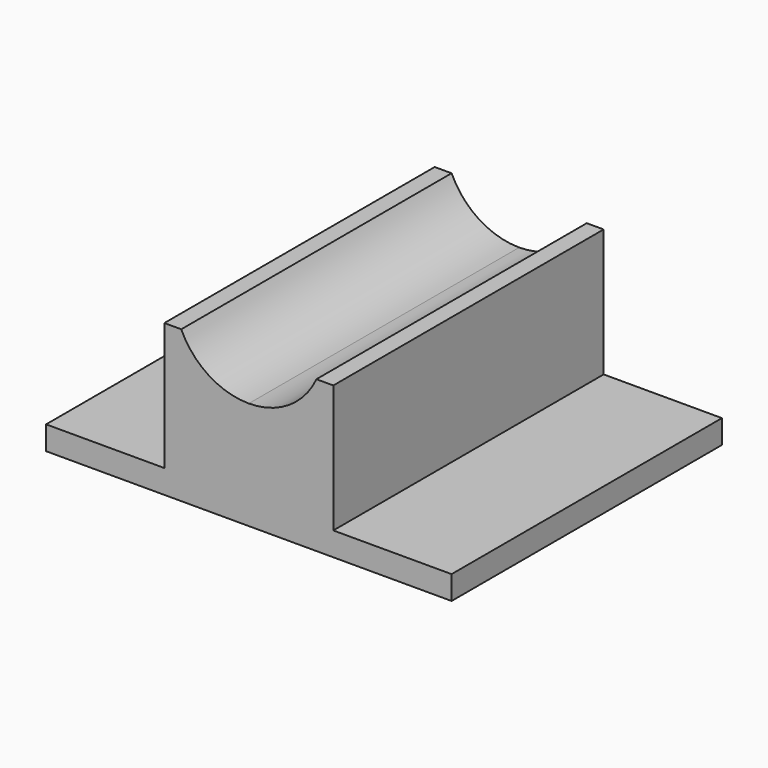
from build123d import *

# Parameters (mm, degrees)
F1_DEPTH = 100


with BuildPart() as f1:
    # F0 (on Front) → F1 (new body)
    with BuildSketch(Plane.XZ):
        with BuildLine():
            Line((-38.331206, 20.254048), (-38.331206, -17.520235))
            Line((-38.331206, -17.520235), (-13.331206, -17.520235))
            Line((-13.331206, -17.520235), (-13.331206, 7.419199))
            ThreePointArc((-13.331206, 7.419199), (-25.213266, 10.90389), (-33.331206, 20.254048))
            Line((-33.331206, 20.254048), (-38.331206, 20.254048))
        make_face()
        with BuildLine():
            Line((-13.331206, 7.419199), (-13.331206, -17.520235))
            Line((-13.331206, -17.520235), (11.668794, -17.520235))
            Line((11.668794, -17.520235), (11.668794, 20.254048))
            Line((11.668794, 20.254048), (6.668794, 20.254048))
            ThreePointArc((6.668794, 20.254048), (-1.449147, 10.90389), (-13.331206, 7.419199))
        make_face()
        Polygon((-38.331206, -17.520235), (-73.331206, -17.520235), (-73.331206, -24.520235), (46.668794, -24.520235), (46.668794, -17.520235), (11.668794, -17.520235), (-13.331206, -17.520235), align=None)
    extrude(amount=F1_DEPTH)


solid = f1.part
